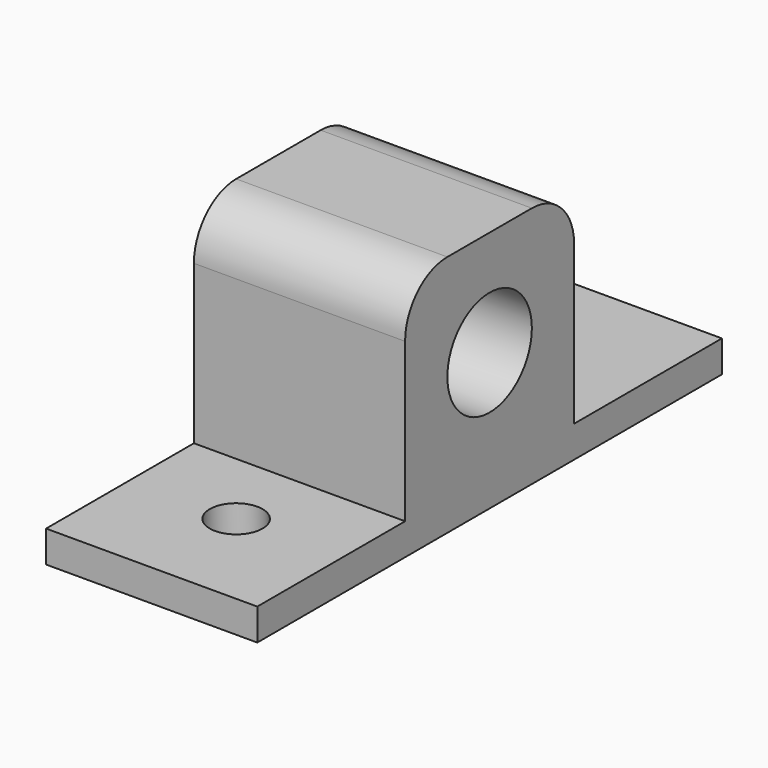
from build123d import *

# Parameters (mm, degrees)
F1_DEPTH = 20
F2_R     = 5
F3_DEPTH = 20.001
F4_R     = 5
F5_R     = 5
F6_R     = 2.5
F7_DEPTH = 23.001


with BuildPart() as f1:
    # F0 (on Right) → F1 (new body)
    with BuildSketch(Plane.YZ):
        Polygon((-27.5, -10), (-27.5, -13), (27.5, -13), (27.5, -10), (10, -10), (10, 10), (-10, 10), (-10, -10), align=None)
    extrude(amount=F1_DEPTH)

    # F2 (on face) → F3 (cut, through all)
    with BuildSketch(Plane.YZ.offset(20)):
        Circle(F2_R)
    extrude(amount=-F3_DEPTH, mode=Mode.SUBTRACT)

    # F4
    f4_edges = [f1.edges().sort_by_distance(p)[0] for p in [
        (10, -10, 10),
    ]]
    fillet(f4_edges, radius=F4_R)

    # F5
    f5_edges = [f1.edges().sort_by_distance(p)[0] for p in [
        (10, 10, 10),
    ]]
    fillet(f5_edges, radius=F5_R)

    # F6 (on face) → F7 (cut, through all)
    with BuildSketch(Plane(origin=(0, 0, -13), x_dir=(1, 0, 0), z_dir=(0, 0, -1))):
        with Locations((10, 17.5)):
            Circle(F6_R)
        with Locations((10, -17.5)):
            Circle(F6_R)
    extrude(amount=-F7_DEPTH, mode=Mode.SUBTRACT)


solid = f1.part
